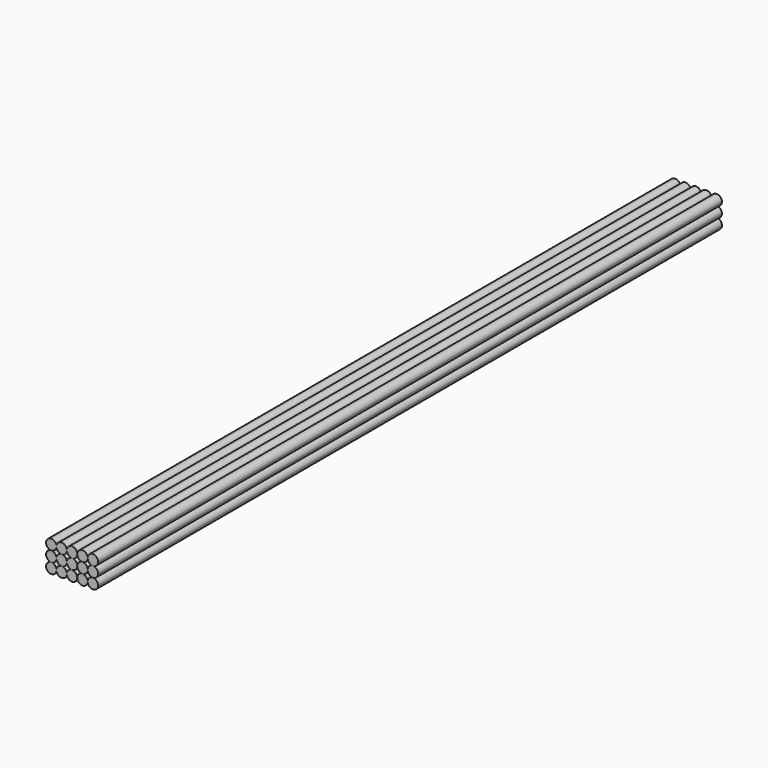
from build123d import *

# Parameters (mm, degrees)
F1_DEPTH = 1905


with BuildPart() as f1:
    # F0 (on Front) → F1 (new body)
    with BuildSketch(Plane.XZ):
        with BuildLine():
            ThreePointArc((0, -12.7), (8.980256, -8.980256), (12.7, 0))
            ThreePointArc((12.7, 0), (-8.980256, 8.980256), (0, -12.7))
        make_face()
        with BuildLine():
            ThreePointArc((38.1, 0), (25.4, 12.7), (12.7, 0))
            ThreePointArc((12.7, 0), (16.419744, -8.980256), (25.4, -12.7))
            ThreePointArc((25.4, -12.7), (34.380256, -8.980256), (38.1, 0))
        make_face()
        with BuildLine():
            ThreePointArc((63.5, 0), (50.8, 12.7), (38.1, 0))
            ThreePointArc((38.1, 0), (41.819744, -8.980256), (50.8, -12.7))
            ThreePointArc((50.8, -12.7), (59.780256, -8.980256), (63.5, 0))
        make_face()
        with BuildLine():
            ThreePointArc((88.9, 0), (76.2, 12.7), (63.5, 0))
            ThreePointArc((63.5, 0), (67.219744, -8.980256), (76.2, -12.7))
            ThreePointArc((76.2, -12.7), (85.180256, -8.980256), (88.9, 0))
        make_face()
        with BuildLine():
            ThreePointArc((114.3, 0), (101.6, 12.7), (88.9, 0))
            ThreePointArc((88.9, 0), (92.619744, -8.980256), (101.6, -12.7))
            ThreePointArc((101.6, -12.7), (110.580256, -8.980256), (114.3, 0))
        make_face()
        with BuildLine():
            ThreePointArc((114.3, -25.4), (110.580256, -16.419744), (101.6, -12.7))
            ThreePointArc((101.6, -12.7), (92.619744, -16.419744), (88.9, -25.4))
            ThreePointArc((88.9, -25.4), (92.619744, -34.380256), (101.6, -38.1))
            ThreePointArc((101.6, -38.1), (110.580256, -34.380256), (114.3, -25.4))
        make_face()
        with BuildLine():
            ThreePointArc((88.9, -25.4), (85.180256, -16.419744), (76.2, -12.7))
            ThreePointArc((76.2, -12.7), (67.219744, -16.419744), (63.5, -25.4))
            ThreePointArc((63.5, -25.4), (67.219744, -34.380256), (76.2, -38.1))
            ThreePointArc((76.2, -38.1), (85.180256, -34.380256), (88.9, -25.4))
        make_face()
        with BuildLine():
            ThreePointArc((63.5, -25.4), (59.780256, -16.419744), (50.8, -12.7))
            ThreePointArc((50.8, -12.7), (41.819744, -16.419744), (38.1, -25.4))
            ThreePointArc((38.1, -25.4), (41.819744, -34.380256), (50.8, -38.1))
            ThreePointArc((50.8, -38.1), (59.780256, -34.380256), (63.5, -25.4))
        make_face()
        with BuildLine():
            ThreePointArc((38.1, -25.4), (34.380256, -16.419744), (25.4, -12.7))
            ThreePointArc((25.4, -12.7), (16.419744, -16.419744), (12.7, -25.4))
            ThreePointArc((12.7, -25.4), (16.419744, -34.380256), (25.4, -38.1))
            ThreePointArc((25.4, -38.1), (34.380256, -34.380256), (38.1, -25.4))
        make_face()
        with BuildLine():
            ThreePointArc((12.7, -25.4), (8.980256, -16.419744), (0, -12.7))
            ThreePointArc((0, -12.7), (-12.7, -25.4), (0, -38.1))
            ThreePointArc((0, -38.1), (8.980256, -34.380256), (12.7, -25.4))
        make_face()
        with BuildLine():
            ThreePointArc((12.7, -50.8), (8.980256, -41.819744), (0, -38.1))
            ThreePointArc((0, -38.1), (-8.980256, -59.780256), (12.7, -50.8))
        make_face()
        with BuildLine():
            ThreePointArc((38.1, -50.8), (34.380256, -41.819744), (25.4, -38.1))
            ThreePointArc((25.4, -38.1), (16.419744, -41.819744), (12.7, -50.8))
            ThreePointArc((12.7, -50.8), (25.4, -63.5), (38.1, -50.8))
        make_face()
        with BuildLine():
            ThreePointArc((63.5, -50.8), (59.780256, -41.819744), (50.8, -38.1))
            ThreePointArc((50.8, -38.1), (41.819744, -41.819744), (38.1, -50.8))
            ThreePointArc((38.1, -50.8), (50.8, -63.5), (63.5, -50.8))
        make_face()
        with BuildLine():
            ThreePointArc((88.9, -50.8), (85.180256, -41.819744), (76.2, -38.1))
            ThreePointArc((76.2, -38.1), (67.219744, -41.819744), (63.5, -50.8))
            ThreePointArc((63.5, -50.8), (76.2, -63.5), (88.9, -50.8))
        make_face()
        with BuildLine():
            ThreePointArc((114.3, -50.8), (110.580256, -41.819744), (101.6, -38.1))
            ThreePointArc((101.6, -38.1), (92.619744, -41.819744), (88.9, -50.8))
            ThreePointArc((88.9, -50.8), (101.6, -63.5), (114.3, -50.8))
        make_face()
    extrude(amount=F1_DEPTH)


solid = f1.part
